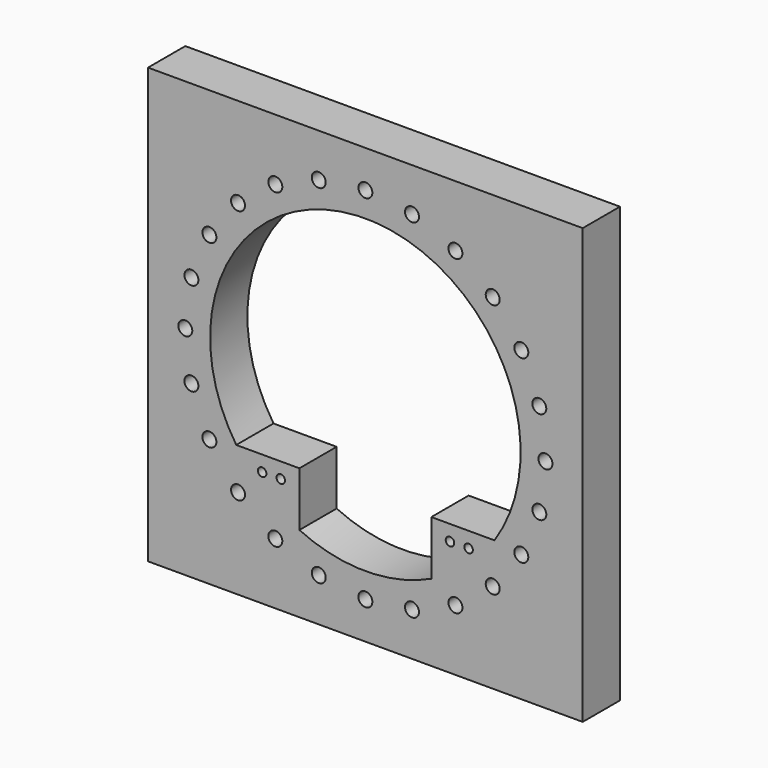
from build123d import *

# Parameters (mm, degrees)
F0_W     = 280
F0_H     = 280
F0_R     = 100
F1_DEPTH = 30
F3_D     = 13.5
F3_DEPTH = 20
F3_TIP   = 4.0558091784
F5_DEPTH = 30.001
F7_D     = 9
F7_DEPTH = 15
F7_TIP   = 2.7038727856
F9_D     = 9
F9_DEPTH = 15
F9_TIP   = 2.7038727856
F11_D    = 5.5


with BuildPart() as f1:
    # F0 (on Front) → F1 (new body)
    with BuildSketch(Plane.XZ):
        Rectangle(F0_W, F0_H)
        Circle(F0_R, mode=Mode.SUBTRACT)
        Circle(F0_R)
    extrude(amount=F1_DEPTH)

    # F3
    with Locations(Plane(origin=(0, 0, -140), x_dir=(1, 0, 0), z_dir=(0, 0, -1))):
        with Locations((110, 15), (60, 15), (-60, 15), (-110, 15)):
            Hole(F3_D / 2, depth=F3_DEPTH)
            with Locations((0, 0, -(F3_DEPTH + F3_TIP / 2))):  # 118° drill point
                Cone(0, F3_D / 2, F3_TIP, mode=Mode.SUBTRACT)

    # F4 (on face) → F5 (cut, through all)
    with BuildSketch(Plane.XZ.offset(30)):
        with BuildLine():
            ThreePointArc((-42.5, -90.5193349512), (0, -100), (42.5, -90.5193349512))
            Line((42.5, -90.5193349512), (42.5, -55.5193349512))
            Line((42.5, -55.5193349512), (83.1721314298, -55.5193349512))
            ThreePointArc((83.1721314298, -55.5193349512), (0, 100), (-83.1721314298, -55.5193349512))
            Line((-83.1721314298, -55.5193349512), (-42.5, -55.5193349512))
            Line((-42.5, -55.5193349512), (-42.5, -90.5193349512))
        make_face()
    extrude(amount=-F5_DEPTH, mode=Mode.SUBTRACT)

    # F7
    with Locations(Plane.XZ.offset(30)):
        with Locations((0, 116), (30.0230092319, 112.0473958495), (58, 100.458946839), (82.0243866176, 82.0243866176), (100.458946839, 58), (112.0473958495, 30.0230092319), (116, 0), (112.0473958495, -30.0230092319), (100.458946839, -58), (82.0243866176, -82.0243866176), (58, -100.458946839), (30.0230092319, -112.0473958495), (0, -116), (-30.0230092319, -112.0473958495), (-58, -100.458946839), (-82.0243866176, -82.0243866176), (-100.458946839, -58), (-112.0473958495, -30.0230092319), (-116, 0), (-112.0473958495, 30.0230092319), (-100.458946839, 58), (-82.0243866176, 82.0243866176), (-58, 100.458946839), (-30.0230092319, 112.0473958495)):
            Hole(F7_D / 2, depth=F7_DEPTH)
            with Locations((0, 0, -(F7_DEPTH + F7_TIP / 2))):  # 118° drill point
                Cone(0, F7_D / 2, F7_TIP, mode=Mode.SUBTRACT)

    # F9
    with Locations(Plane(origin=(0, 0, 0), x_dir=(-1, 0, 0), z_dir=(0, 1, 0))):
        with Locations((15.1410382975, 115.0076039194), (44.3912781544, 107.1700257713), (70.616325765, 92.0289874738), (92.0289874738, 70.616325765), (107.1700257713, 44.3912781544), (115.0076039194, 15.1410382975), (115.0076039194, -15.1410382975), (107.1700257713, -44.3912781544), (92.0289874738, -70.616325765), (70.616325765, -92.0289874738), (44.3912781544, -107.1700257713), (15.1410382975, -115.0076039194), (-15.1410382975, -115.0076039194), (-44.3912781544, -107.1700257713), (-70.616325765, -92.0289874738), (-92.0289874738, -70.616325765), (-107.1700257713, -44.3912781544), (-115.0076039194, -15.1410382975), (-115.0076039194, 15.1410382975), (-107.1700257713, 44.3912781544), (-92.0289874738, 70.616325765), (-70.616325765, 92.0289874738), (-44.3912781544, 107.1700257713), (-15.1410382975, 115.0076039194)):
            Hole(F9_D / 2, depth=F9_DEPTH)
            with Locations((0, 0, -(F9_DEPTH + F9_TIP / 2))):  # 118° drill point
                Cone(0, F9_D / 2, F9_TIP, mode=Mode.SUBTRACT)

    # F11 (through all)
    with Locations(Plane(origin=(0, 0, 0), x_dir=(-1, 0, 0), z_dir=(0, 1, 0))):
        with Locations((54.5, -65.5193349512), (66.5, -65.5193349512), (-66.5, -65.5193349512), (-54.5, -65.5193349512)):
            Hole(F11_D / 2)


solid = f1.part
